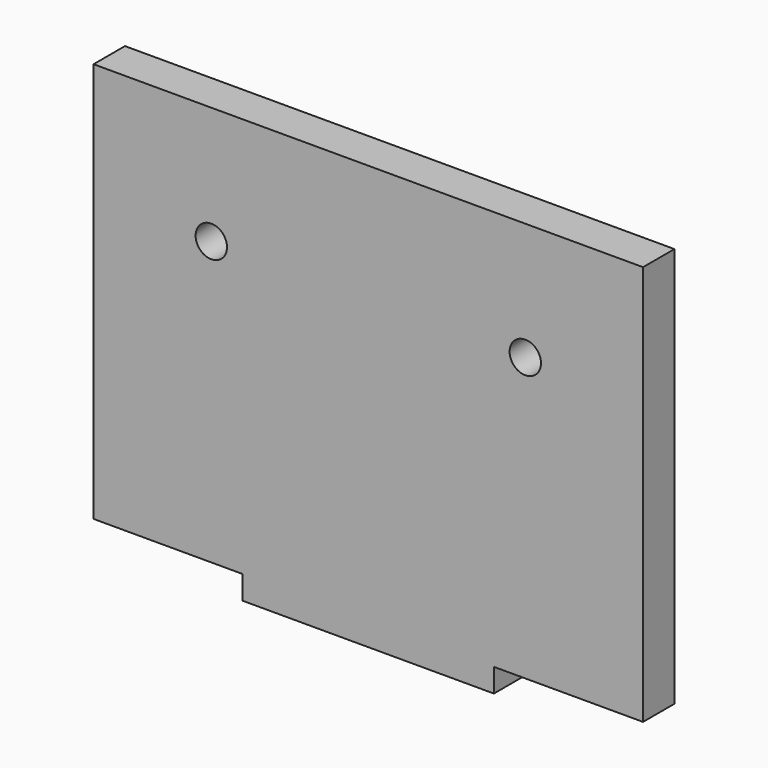
from build123d import *

# Parameters (mm, degrees)
F1_DEPTH = 5
F2_R     = 2
F3_DEPTH = 25


with BuildPart() as f1:
    # F0 (on Front) → F1 (new body)
    with BuildSketch(Plane.XZ):
        Polygon((35, -25.5), (35, 25.5), (-35, 25.5), (-35, -25.5), (-16, -25.5), (-16, -28.5), (16, -28.5), (16, -25.5), align=None)
    extrude(amount=F1_DEPTH)

    # F2 (on face) → F3 (cut)
    with BuildSketch(Plane.XZ.offset(5)):
        with Locations((-20, 10.5)):
            Circle(F2_R)
        with Locations((20, 10.5)):
            Circle(F2_R)
    extrude(amount=-F3_DEPTH, mode=Mode.SUBTRACT)


solid = f1.part
